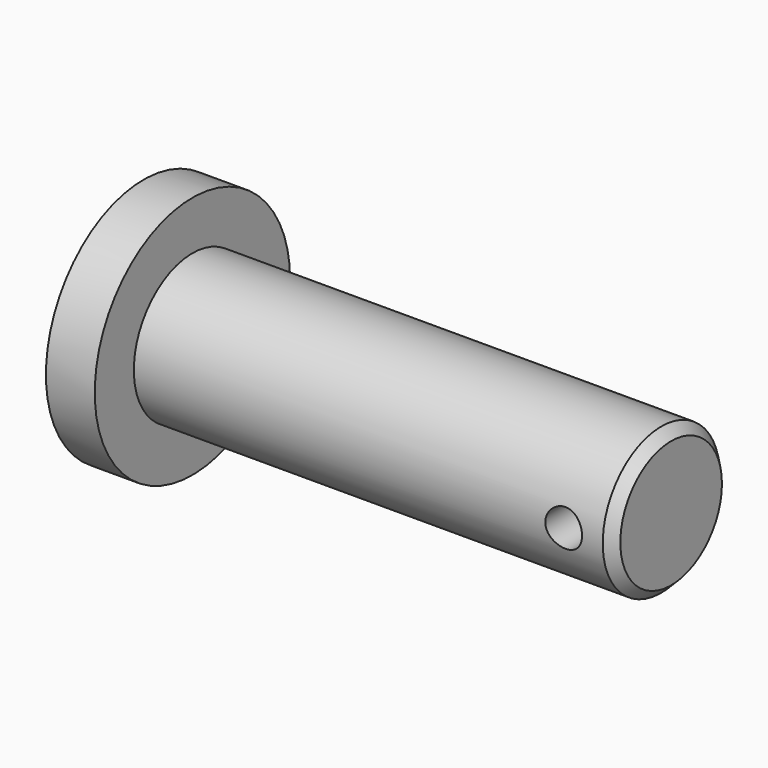
from build123d import *

# Parameters (mm, degrees)
F0_R     = 15.875
F0_R_2   = 9.525
F1_DEPTH = 6.35
F2_DEPTH = 68.58
F3_R     = 2.3876
F4_DEPTH = 12.7
F5_SIZE2 = 1.27
F5_SIZE  = 1.27


with BuildPart() as f1:
    # F0 (on Right) → F1 (new body)
    with BuildSketch(Plane.YZ):
        Circle(F0_R)
        Circle(F0_R_2, mode=Mode.SUBTRACT)
    extrude(amount=F1_DEPTH)

    # F0 (on Right) → F2 (join)
    with BuildSketch(Plane.YZ):
        Circle(F0_R_2)
    extrude(amount=F2_DEPTH)

    # F3 (on Front) → F4 (cut, symmetric)
    with BuildSketch(Plane.XZ):
        with Locations((62.23, 0)):
            Circle(F3_R)
    extrude(amount=F4_DEPTH, both=True, mode=Mode.SUBTRACT)

    # F5
    f5_edges = [f1.edges().sort_by_distance(p)[0] for p in [
        (68.58, -9.525, 0),
    ]]
    chamfer(f5_edges, length=F5_SIZE, length2=F5_SIZE2)


solid = f1.part
